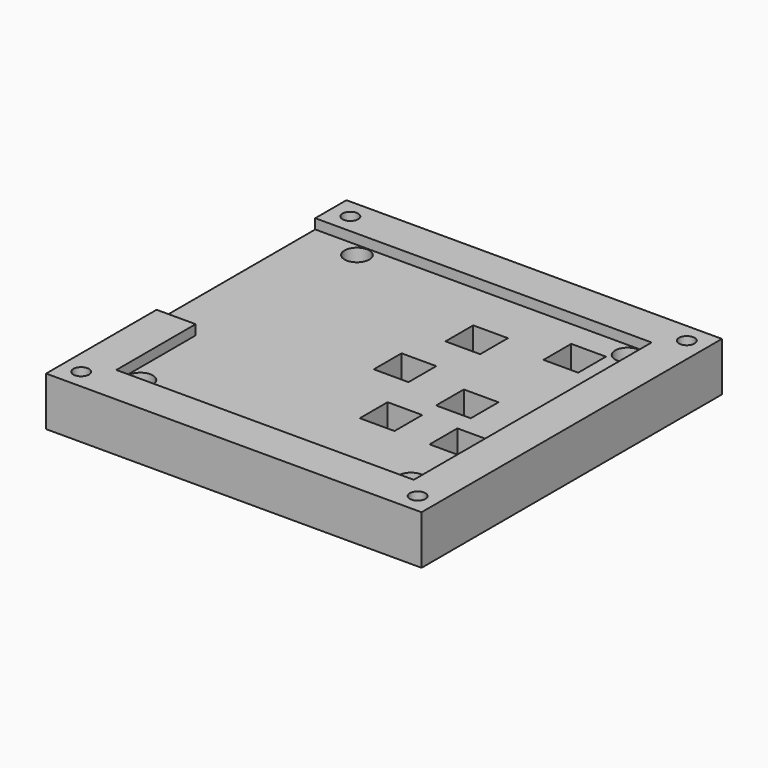
from build123d import *

# Parameters (mm, degrees)
F0_R     = 2
F1_DEPTH = 2.54
F0_R_2   = 3.175
F0_W     = 8.89
F0_H     = 8.89
F2_DEPTH = 10


with BuildPart() as f1:
    # F0 (on Top) → F1 (new body)
    with BuildSketch(Plane.XY):
        Polygon((-49.1249652207, 30.2994954109), (-49.1249652207, 20.2994954109), (-48.8709652207, 20.2994954109), (-45.1879652207, 20.2994954109), (23.1380347793, 20.2994954109), (26.8210347793, 20.2994954109), (27.0750347793, 20.2994954109), (27.0750347793, 20.4264954109), (27.0750347793, 30.2994954109), align=None)
        Polygon((-59.1249652207, 25.2994954109), (-59.1249652207, 20.2994954109), (-54.1249652207, 20.2994954109), (-49.1249652207, 20.2994954109), (-49.1249652207, 30.2994954109), (-59.1249652207, 30.2994954109), align=None)
        with Locations((-54.1249652207, 25.2994954109)):
            Circle(F0_R, mode=Mode.SUBTRACT)
        Polygon((-59.1249652207, -30.5005045891), (-59.1249652207, -55.9005045891), (-49.1249652207, -55.9005045891), (-49.1249652207, -55.6465045891), (-49.1249652207, -54.1503839195), (-49.1249652207, -51.9635045891), (-49.1249652207, -30.5005045891), align=None)
        Polygon((27.0750347793, -55.6465045891), (27.0750347793, -55.9005045891), (27.1951819298, -55.9005045891), (37.0750347793, -55.9005045891), (37.0750347793, 20.2994954109), (32.0750347793, 20.2994954109), (27.3221819298, 20.2994954109), (27.0750347793, 20.2994954109), (27.0750347793, 20.0454954109), (27.0750347793, 16.3624954109), (27.0750347793, 4.7038954109), (27.0750347793, -1.2905045891), (27.0750347793, -19.7055045891), (27.0750347793, -24.1505045891), (27.0750347793, -37.9935045891), (27.0750347793, -38.1205045891), (27.0750347793, -51.9635045891), align=None)
        Polygon((32.0750347793, 20.2994954109), (37.0750347793, 20.2994954109), (37.0750347793, 25.2994954109), (37.0750347793, 30.2994954109), (27.0750347793, 30.2994954109), (27.0750347793, 20.4264954109), (27.0750347793, 20.2994954109), (27.3221819298, 20.2994954109), align=None)
        with Locations((32.0750347793, 25.2994954109)):
            Circle(F0_R, mode=Mode.SUBTRACT)
        Polygon((27.0750347793, -55.9005045891), (27.0750347793, -65.9005045891), (32.0750347793, -65.9005045891), (37.0750347793, -65.9005045891), (37.0750347793, -60.9005045891), (37.0750347793, -55.9005045891), (27.1951819298, -55.9005045891), align=None)
        with Locations((32.0750347793, -60.9005045891)):
            Circle(F0_R, mode=Mode.SUBTRACT)
        Polygon((-49.1249652207, -55.9005045891), (-49.1249652207, -65.9005045891), (27.0750347793, -65.9005045891), (27.0750347793, -55.9005045891), (26.8210347793, -55.9005045891), (26.5670347793, -55.9005045891), (24.5350347793, -55.9005045891), (23.5190347793, -55.9005045891), (23.1380347793, -55.9005045891), (6.5518347793, -55.9005045891), (-0.8649652207, -55.9005045891), (-4.4971652207, -55.9005045891), (-45.1879652207, -55.9005045891), (-48.8709652207, -55.9005045891), align=None)
        Polygon((-59.1249652207, -60.9005045891), (-59.1249652207, -65.9005045891), (-54.1249652207, -65.9005045891), (-49.1249652207, -65.9005045891), (-49.1249652207, -55.9005045891), (-59.1249652207, -55.9005045891), align=None)
        with Locations((-54.1249652207, -60.9005045891)):
            Circle(F0_R, mode=Mode.SUBTRACT)
    extrude(amount=F1_DEPTH)

    # F0 (on Top) → F2 (join)
    with BuildSketch(Plane.XY):
        Polygon((32.0750347793, 20.2994954109), (37.0750347793, 20.2994954109), (37.0750347793, 25.2994954109), (37.0750347793, 30.2994954109), (27.0750347793, 30.2994954109), (27.0750347793, 20.4264954109), (27.0750347793, 20.2994954109), (27.3221819298, 20.2994954109), align=None)
        with Locations((32.0750347793, 25.2994954109)):
            Circle(F0_R, mode=Mode.SUBTRACT)
        Polygon((27.0750347793, -55.6465045891), (27.0750347793, -55.9005045891), (27.1951819298, -55.9005045891), (37.0750347793, -55.9005045891), (37.0750347793, 20.2994954109), (32.0750347793, 20.2994954109), (27.3221819298, 20.2994954109), (27.0750347793, 20.2994954109), (27.0750347793, 20.0454954109), (27.0750347793, 16.3624954109), (27.0750347793, 4.7038954109), (27.0750347793, -1.2905045891), (27.0750347793, -19.7055045891), (27.0750347793, -24.1505045891), (27.0750347793, -37.9935045891), (27.0750347793, -38.1205045891), (27.0750347793, -51.9635045891), align=None)
        Polygon((-49.1249652207, 30.2994954109), (-49.1249652207, 20.2994954109), (-48.8709652207, 20.2994954109), (-45.1879652207, 20.2994954109), (23.1380347793, 20.2994954109), (26.8210347793, 20.2994954109), (27.0750347793, 20.2994954109), (27.0750347793, 20.4264954109), (27.0750347793, 30.2994954109), align=None)
        Polygon((-59.1249652207, 25.2994954109), (-59.1249652207, 20.2994954109), (-54.1249652207, 20.2994954109), (-49.1249652207, 20.2994954109), (-49.1249652207, 30.2994954109), (-59.1249652207, 30.2994954109), align=None)
        with Locations((-54.1249652207, 25.2994954109)):
            Circle(F0_R, mode=Mode.SUBTRACT)
        Polygon((-59.1249652207, 20.2994954109), (-59.1249652207, -30.5005045891), (-49.1249652207, -30.5005045891), (-49.1249652207, 16.3624954109), (-49.1249652207, 20.0454954109), (-49.1249652207, 20.2994954109), (-54.1249652207, 20.2994954109), align=None)
        Polygon((-59.1249652207, -30.5005045891), (-59.1249652207, -55.9005045891), (-49.1249652207, -55.9005045891), (-49.1249652207, -55.6465045891), (-49.1249652207, -54.1503839195), (-49.1249652207, -51.9635045891), (-49.1249652207, -30.5005045891), align=None)
        Polygon((-59.1249652207, -60.9005045891), (-59.1249652207, -65.9005045891), (-54.1249652207, -65.9005045891), (-49.1249652207, -65.9005045891), (-49.1249652207, -55.9005045891), (-59.1249652207, -55.9005045891), align=None)
        with Locations((-54.1249652207, -60.9005045891)):
            Circle(F0_R, mode=Mode.SUBTRACT)
        Polygon((-49.1249652207, -55.9005045891), (-49.1249652207, -65.9005045891), (27.0750347793, -65.9005045891), (27.0750347793, -55.9005045891), (26.8210347793, -55.9005045891), (26.5670347793, -55.9005045891), (24.5350347793, -55.9005045891), (23.5190347793, -55.9005045891), (23.1380347793, -55.9005045891), (6.5518347793, -55.9005045891), (-0.8649652207, -55.9005045891), (-4.4971652207, -55.9005045891), (-45.1879652207, -55.9005045891), (-48.8709652207, -55.9005045891), align=None)
        Polygon((27.0750347793, -55.9005045891), (27.0750347793, -65.9005045891), (32.0750347793, -65.9005045891), (37.0750347793, -65.9005045891), (37.0750347793, -60.9005045891), (37.0750347793, -55.9005045891), (27.1951819298, -55.9005045891), align=None)
        with Locations((32.0750347793, -60.9005045891)):
            Circle(F0_R, mode=Mode.SUBTRACT)
        Polygon((-49.1249652207, -55.6465045891), (-49.1249652207, -55.9005045891), (-48.8709652207, -55.9005045891), (-45.1879652207, -55.9005045891), (-4.4971652207, -55.9005045891), (-0.8649652207, -55.9005045891), (6.5518347793, -55.9005045891), (23.1380347793, -55.9005045891), (23.5190347793, -55.9005045891), (24.5350347793, -55.9005045891), (26.5670347793, -55.9005045891), (26.8210347793, -55.9005045891), (27.0750347793, -55.9005045891), (27.0750347793, -55.6465045891), (27.0750347793, -51.9635045891), (27.0750347793, -38.1205045891), (27.0750347793, -37.9935045891), (27.0750347793, -24.1505045891), (27.0750347793, -19.7055045891), (27.0750347793, -1.2905045891), (27.0750347793, 4.7038954109), (27.0750347793, 16.3624954109), (27.0750347793, 20.0454954109), (27.0750347793, 20.2994954109), (26.8210347793, 20.2994954109), (23.1380347793, 20.2994954109), (-45.1879652207, 20.2994954109), (-48.8709652207, 20.2994954109), (-49.1249652207, 20.2994954109), (-49.1249652207, 20.0454954109), (-49.1249652207, 16.3624954109), (-49.1249652207, -30.5005045891), (-49.1249652207, -51.9635045891), (-49.1249652207, -54.1503839195), align=None)
        with Locations((-45.6959652207, -52.4715045891)):
            Circle(F0_R_2, mode=Mode.SUBTRACT)
        with Locations((23.6460347793, -52.4715045891)):
            Circle(F0_R_2, mode=Mode.SUBTRACT)
        with Locations((3.3768347793, -33.5485045891)):
            Rectangle(F0_W, F0_H, mode=Mode.SUBTRACT)
        with Locations((11.8350347793, -19.7055045891)):
            Rectangle(F0_W, F0_H, mode=Mode.SUBTRACT)
        with Locations((21.3600347793, -33.6755045891)):
            Rectangle(F0_W, F0_H, mode=Mode.SUBTRACT)
        with Locations((-45.6959652207, 16.8704954109)):
            Circle(F0_R_2, mode=Mode.SUBTRACT)
        with Locations((-7.6721652207, -15.2605045891)):
            Rectangle(F0_W, F0_H, mode=Mode.SUBTRACT)
        with Locations((-4.0399652207, 3.1544954109)):
            Rectangle(F0_W, F0_H, mode=Mode.SUBTRACT)
        with Locations((16.2800347793, 9.1488954109)):
            Rectangle(F0_W, F0_H, mode=Mode.SUBTRACT)
        with Locations((23.6460347793, 16.8704954109)):
            Circle(F0_R_2, mode=Mode.SUBTRACT)
    extrude(amount=-F2_DEPTH)


solid = f1.part
